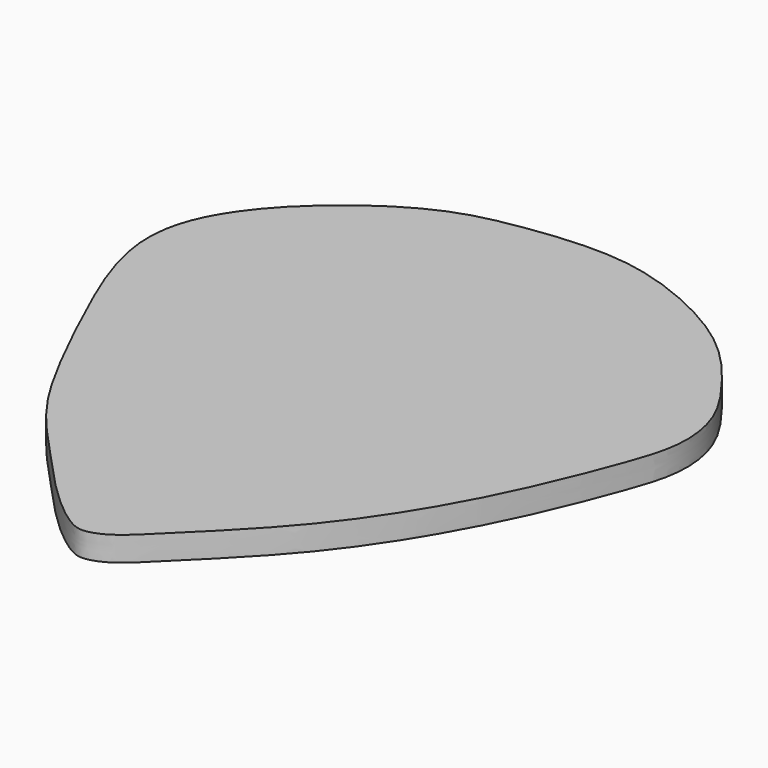
from build123d import *

# Parameters (mm, degrees)
F1_DEPTH = 0.889


with BuildPart() as f1:
    # F0 (on Top) → F1 (new body)
    with BuildSketch(Plane.XY):
        with BuildLine():
            add(Edge.make_bspline(
                [(-7.245769073, 18.5353004182), (-6.4086050647, 18.5608447049), (-4.5477888598, 18.4323624983), (-0.8265772993, 16.6905682612), (1.045636349, 14.4790549113), (2.321707983, 12.6253061427), (2.5824148242, 10.6879685889), (1.9712333401, 8.8142681388), (0.8258218556, 5.8991999801), (-0.7400787748, 2.8914826464), (-2.7915066987, -0.0186113716), (-5.298188629, -2.4765900708), (-6.5048413466, -3.7085639557), (-7.2815616593, -4.019311234), (-7.874042472, -3.9997618915), (-9.3892905379, -2.7818334791), (-10.8292903752, -1.1749470908), (-12.2195853853, 0.2837607992), (-13.6523560501, 2.0898365086), (-15.8016678474, 6.4794182975), (-17.4321204375, 10.3170238882), (-17.0879512816, 13.0704120684), (-15.0427389829, 15.6770051653), (-11.9752156133, 17.8094092673), (-9.6156927021, 18.3158479084), (-8.0317061095, 18.511319214), (-7.245769073, 18.5353004182)],
                knots=[0, 0, 0, 0, 0.0426166193, 0.095029105, 0.1397047706, 0.1782855227, 0.2135163567, 0.2498107682, 0.2959310579, 0.3443383166, 0.3941699076, 0.4433684411, 0.4772214737, 0.4996118499, 0.5183894783, 0.5538866122, 0.5933524099, 0.6297188708, 0.6690768052, 0.7272271906, 0.7807921573, 0.8223084942, 0.8693375771, 0.9196059379, 0.9599911377, 1, 1, 1, 1], degree=3))
        make_face()
    extrude(amount=F1_DEPTH)


solid = f1.part
